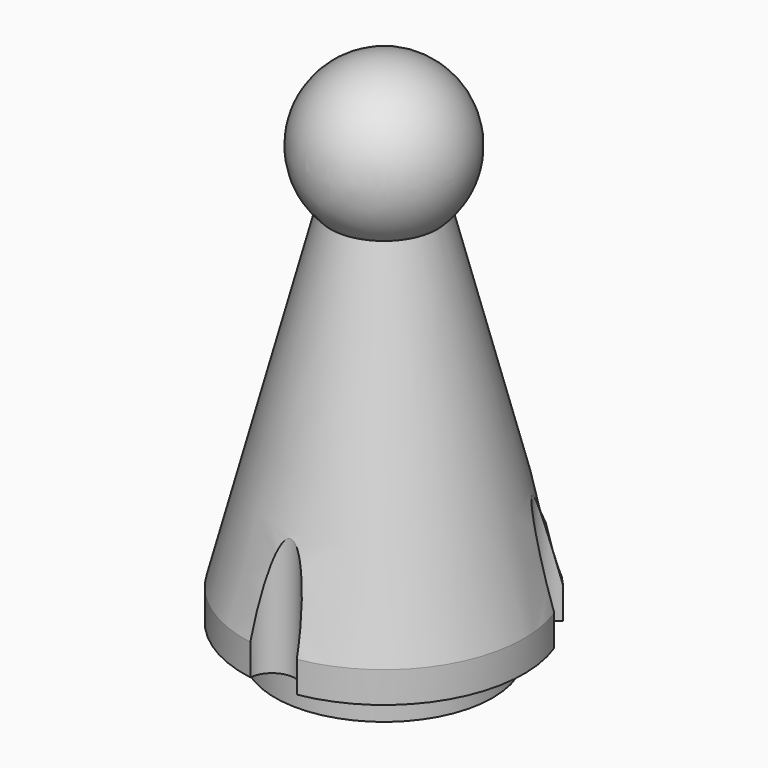
from build123d import *

# Parameters (mm, degrees)
F0_R      = 7
F1_DEPTH  = 2
F2_R      = 9
F3_DEPTH  = 2
F3_FACE_R = 9
F5_R      = 2.5
F9_R      = 1.5
F10_DEPTH = 32.001


with BuildPart() as f1:
    # F0 (on Top) → F1 (new body)
    with BuildSketch(Plane.XY):
        Circle(F0_R)
    extrude(amount=F1_DEPTH)

    # F2 (on face) → F3 (join)
    with BuildSketch(Plane.XY.offset(2)):
        Circle(F2_R)
    extrude(amount=F3_DEPTH)

    # F3_face (on face) → F6 section 0
    with BuildSketch(Plane.XY.offset(4)):
        Circle(F3_FACE_R)
    # F5 (on offset) → F6 section 1
    with BuildSketch(Plane.XY.offset(29)):
        Circle(F5_R)
    loft()

    # F7 (on face) → F8 (revolve)
    with BuildSketch(Plane.XY.offset(29)):
        with BuildLine():
            ThreePointArc((-5, 0), (0, -5), (5, 0))
            Line((5, 0), (2.5, 0))
            ThreePointArc((2.5, 0), (0, -2.5), (-2.5, 0))
            Line((-2.5, 0), (-5, 0))
        make_face()
        with BuildLine():
            Line((-2.5, 0), (2.5, 0))
            ThreePointArc((2.5, 0), (0, 2.5), (-2.5, 0))
        make_face()
    revolve(axis=Axis((0, 0, 29), (1, 0, 0)))

    # F9 (on face) → F10 (cut, through all)
    with BuildSketch(Plane(origin=(0, 0, 2), x_dir=(1, 0, 0), z_dir=(0, 0, -1))):
        with Locations((0, 9)):
            Circle(F9_R)
        with Locations((-7.7942286341, -4.5)):
            Circle(F9_R)
        with Locations((7.7942286341, -4.5)):
            Circle(F9_R)
    extrude(amount=-F10_DEPTH, mode=Mode.SUBTRACT)


solid = f1.part
